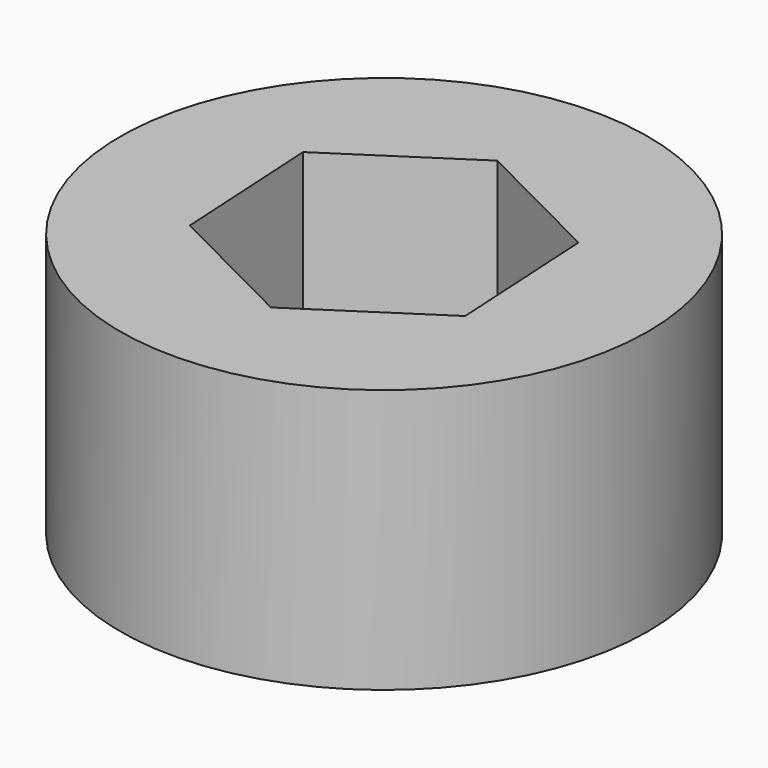
from build123d import *

# Parameters (mm, degrees)
F0_R     = 3.175
F1_DEPTH = 3.175


with BuildPart() as f1:
    # F0 (on Top) → F1 (new body)
    with BuildSketch(Plane.XY):
        Circle(F0_R)
        Polygon((-1.533747, -1.003907), (-1.636282, 0.82631), (-0.102536, 1.830217), (1.533747, 1.003907), (1.636282, -0.82631), (0.102536, -1.830217), align=None, mode=Mode.SUBTRACT)
    extrude(amount=-F1_DEPTH)


solid = f1.part
